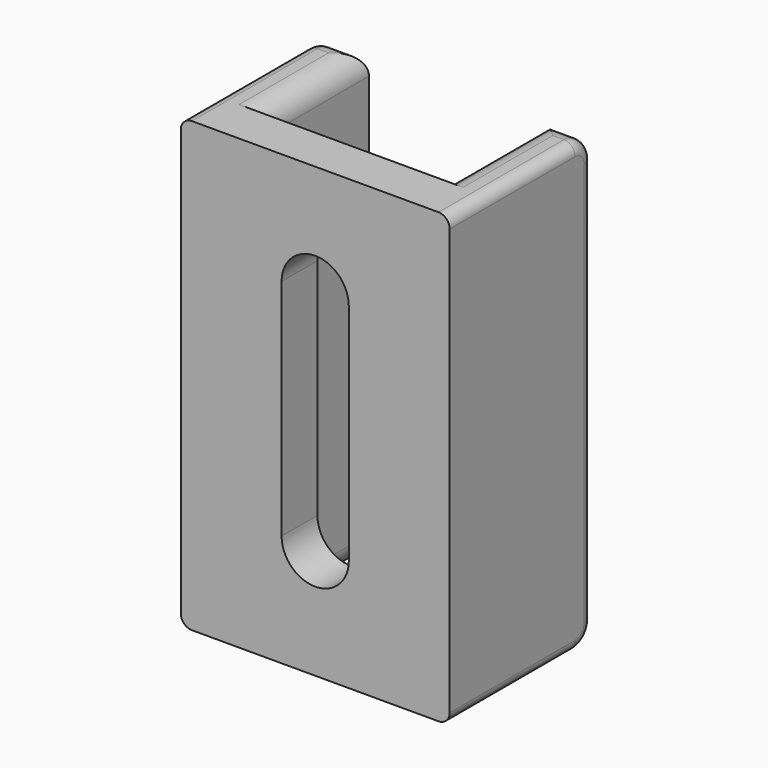
from build123d import *

# Parameters (mm, degrees)
EXTRUDE_DEPTH = 20
POCKET_DEPTH  = 5
FILLET_R      = 1
FILLET001_R   = 0.5


with BuildPart() as part:
    # Sketch → Extrude (new body)
    with BuildSketch(Plane.XY):
        Polygon((0, 0), (12, 0), (12, 8), (10, 8), (10, 2), (2, 2), (2, 8), (0, 8), align=None)
    extrude(amount=EXTRUDE_DEPTH)

    # Sketch001 (on Face5 of BaseFeature) → Pocket (cut)
    with BuildSketch(Plane(origin=(0, 2, 0), x_dir=(-1, 0, 0), z_dir=(0, 1, 0))):
        with BuildLine():
            ThreePointArc((-4.5, 15), (-6, 16.5), (-7.5, 15))
            Line((-7.5, 15), (-7.5, 5))
            ThreePointArc((-7.5, 5), (-6, 3.5), (-4.5, 5))
            Line((-4.5, 15), (-4.5, 5))
        make_face()
    extrude(amount=-POCKET_DEPTH, mode=Mode.SUBTRACT)

    # Fillet
    fillet_edges = [part.edges().sort_by_distance(p)[0] for p in [
        (11, 8, 0),
        (10, 5, 0),
        (2, 5, 0),
        (1, 8, 0),
        (11, 8, 20),
        (10, 5, 20),
        (2, 5, 20),
        (1, 8, 20),
    ]]
    fillet(fillet_edges, radius=FILLET_R)

    # Fillet001
    fillet001_edges = [part.edges().sort_by_distance(p)[0] for p in [
        (0, 3.5, 0),
        (12, 3.5, 0),
    ]]
    fillet(fillet001_edges, radius=FILLET001_R)


solid = part.part
